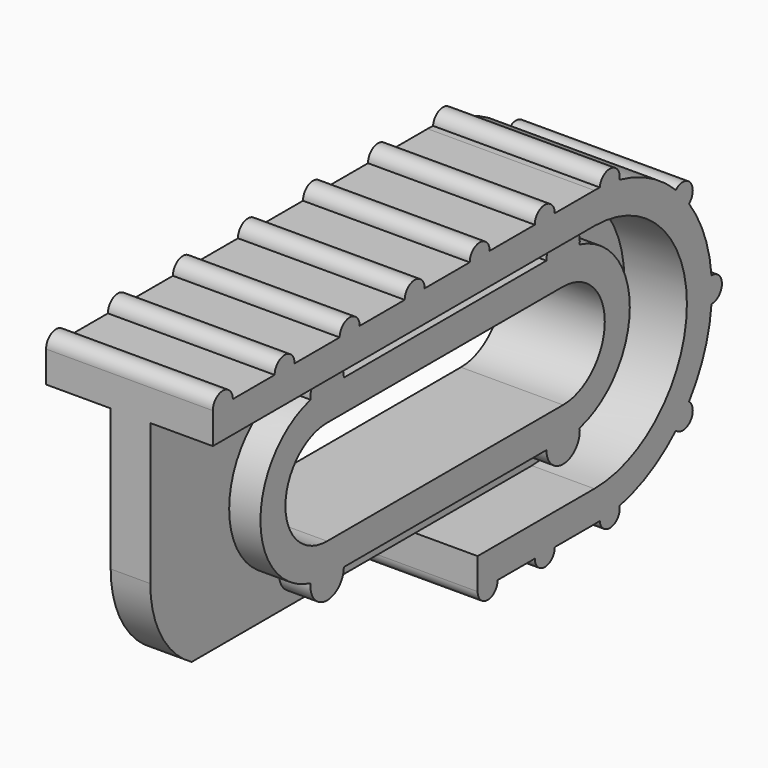
from build123d import *

# Parameters (mm, degrees)
PAD104_DEPTH            = 1.9
POCKET097_DEPTH         = 2
PAD105_DEPTH            = 1.5
PAD106_DEPTH            = 1.5
PAD107_DEPTH            = 4.9
PAD108_DEPTH            = 3.1
PAD110_DEPTH            = 8
SKETCH201_R             = 1
PAD160_DEPTH            = 2
BODY016_ROLL_ANGLE      = -90
BODY016_PLACEMENT_ANGLE = 90


with BuildPart() as part:
    # Sketch196 → Pad104 (new body)
    with BuildSketch(Plane.XY):
        with BuildLine():
            Line((19.17, -5.55), (42.05, -5.55))
            ThreePointArc((42.05, -5.55), (47.6, 0), (42.05, 5.55))
            Line((21.65, 5.55), (42.05, 5.55))
            ThreePointArc((21.65, 5.55), (19.834103, 3.721462), (19.17, 1.231482))
            Line((19.17, -5.55), (19.17, 1.231482))
        make_face()
    extrude(amount=PAD104_DEPTH)

    # Sketch197 (on Face7 of Pad104) → Pocket097 (cut)
    with BuildSketch(Plane.XY.offset(1.9)):
        with BuildLine():
            ThreePointArc((27.9, 2.5), (25.4, 0), (27.9, -2.5))
            Line((27.9, -2.5), (42.05, -2.5))
            ThreePointArc((42.05, -2.5), (44.55, 0), (42.05, 2.5))
            Line((27.9, 2.5), (42.05, 2.5))
        make_face()
    extrude(amount=-POCKET097_DEPTH, mode=Mode.SUBTRACT)

    # Sketch198 (on Face5 of Pocket097) → Pad105 (join)
    with BuildSketch(Plane.XY.offset(1.9)):
        with BuildLine():
            ThreePointArc((42.05, -4), (46.05, 0), (42.05, 4))
            Line((27.9, 4), (42.05, 4))
            ThreePointArc((27.9, 4), (23.899997, 0), (27.9, -4))
            Line((42.05, -4), (27.9, -4))
        make_face()
        with BuildLine():
            ThreePointArc((27.9, 2.5), (25.399983, 0), (27.9, -2.5))
            Line((42.05, -2.5), (27.9, -2.5))
            ThreePointArc((42.05, -2.5), (44.55, 0), (42.05, 2.5))
            Line((42.05, 2.5), (27.9, 2.5))
        make_face(mode=Mode.SUBTRACT)
    extrude(amount=PAD105_DEPTH)

    # Sketch199 (on Face4 of Pad105) → Pad106 (join)
    with BuildSketch(Plane(origin=(0, 0, 0), x_dir=(1, 0, 0), z_dir=(0, 0, -1))):
        with BuildLine():
            Line((27.9, 4), (42.05, 4))
            ThreePointArc((42.05, -4), (46.050003, 0), (42.05, 4))
            Line((42.05, -4), (27.9, -4))
            ThreePointArc((27.9, 4), (23.899975, 0), (27.9, -4))
        make_face()
        with BuildLine():
            ThreePointArc((27.9, 2.5), (25.4, 0), (27.9, -2.5))
            Line((42.05, -2.5), (27.9, -2.5))
            ThreePointArc((42.05, -2.5), (44.55, 0), (42.05, 2.5))
            Line((27.9, 2.5), (42.05, 2.5))
        make_face(mode=Mode.SUBTRACT)
    extrude(amount=PAD106_DEPTH)

    # Sketch200 (on Face5 of Pad106) → Pad107 (join)
    with BuildSketch(Plane.XY.offset(1.9)):
        with BuildLine():
            ThreePointArc((42.05, -5.55), (47.6, 0), (42.05, 5.55))
            Line((42.05, 5.55), (35.05, 5.55))
            Line((35.05, 7.05), (35.05, 5.55))
            Line((42.05, 7.05), (35.05, 7.05))
            ThreePointArc((42.05, -7.05), (49.1, 0), (42.05, 7.05))
            Line((42.05, -7.05), (19.17, -7.05))
            Line((19.17, -7.05), (19.17, -5.55))
            Line((19.17, -5.55), (42.05, -5.55))
        make_face()
    extrude(amount=-PAD107_DEPTH)

    # Sketch200 (on Face5 of Pad106) → Pad108 (join)
    with BuildSketch(Plane.XY.offset(1.9)):
        with BuildLine():
            ThreePointArc((42.05, -5.55), (47.6, 0), (42.05, 5.55))
            Line((42.05, 5.55), (35.05, 5.55))
            Line((35.05, 7.05), (35.05, 5.55))
            Line((42.05, 7.05), (35.05, 7.05))
            ThreePointArc((42.05, -7.05), (49.1, 0), (42.05, 7.05))
            Line((42.05, -7.05), (19.17, -7.05))
            Line((19.17, -7.05), (19.17, -5.55))
            Line((19.17, -5.55), (42.05, -5.55))
        make_face()
    extrude(amount=PAD108_DEPTH)

    # Sketch202 → Pad110 (join)
    with BuildSketch(Plane(origin=(0, 0, -3), x_dir=(1, 0, 0), z_dir=(0, 0, -1))):
        with BuildLine():
            ThreePointArc((24.076013, 7.05), (23.476013, 7.65), (22.876013, 7.05))
            Line((22.876013, 7.05), (24.076013, 7.05))
        make_face()
        with BuildLine():
            ThreePointArc((27.976013, 7.05), (27.376013, 7.65), (26.776013, 7.05))
            Line((26.776013, 7.05), (27.976013, 7.05))
        make_face()
        with BuildLine():
            ThreePointArc((31.876013, 7.05), (31.276013, 7.65), (30.676013, 7.05))
            Line((30.676013, 7.05), (31.876013, 7.05))
        make_face()
        with BuildLine():
            ThreePointArc((35.776013, 7.05), (35.176013, 7.65), (34.576013, 7.05))
            Line((34.576013, 7.05), (35.776013, 7.05))
        make_face()
        with BuildLine():
            ThreePointArc((39.676013, 7.05), (39.076013, 7.65), (38.476013, 7.05))
            Line((38.476013, 7.05), (39.676013, 7.05))
        make_face()
        with BuildLine():
            ThreePointArc((49.074468, -0.599457), (49.7, 0), (49.074468, 0.599457))
            Line((49.074468, 0.599457), (49.074468, -0.599457))
        make_face()
        with BuildLine():
            ThreePointArc((47.727552, 4.179462), (47.802815, 5.042581), (46.937275, 5.081047))
            Line((46.937275, 5.081047), (47.727552, 4.179462))
        make_face()
        with BuildLine():
            ThreePointArc((43.564592, 6.885384), (43.052255, 7.584061), (42.376013, 7.042458))
            Line((42.376013, 7.042458), (43.564592, 6.885384))
        make_face()
        with BuildLine():
            ThreePointArc((46.937275, -5.081047), (47.802815, -5.042581), (47.727552, -4.179462))
            Line((47.727552, -4.179462), (46.937275, -5.081047))
        make_face()
        with BuildLine():
            ThreePointArc((42.376013, -7.042458), (43.052255, -7.584061), (43.564592, -6.885384))
            Line((43.564592, -6.885384), (42.376013, -7.042458))
        make_face()
        with BuildLine():
            ThreePointArc((38.476013, -7.05), (39.076013, -7.65), (39.676013, -7.05))
            Line((39.676013, -7.05), (38.476013, -7.05))
        make_face()
        with BuildLine():
            ThreePointArc((20.37, 7.05), (19.77, 7.65), (19.17, 7.05))
            Line((19.17, 7.05), (20.37, 7.05))
        make_face()
        with BuildLine():
            ThreePointArc((35.05, -7.05), (35.65, -7.65), (36.25, -7.05))
            Line((36.25, -7.05), (35.05, -7.05))
        make_face()
    extrude(amount=-PAD110_DEPTH)

    # Sketch201 (on Face19 of Pad108) → Pad160 (join)
    with BuildSketch(Plane(origin=(0, 0, -1.5), x_dir=(1, 0, 0), z_dir=(0, 0, -1))):
        with Locations((27.9, 4)):
            Circle(SKETCH201_R)
        with Locations((42.05, 4)):
            Circle(SKETCH201_R)
        with Locations((42.05, -4)):
            Circle(SKETCH201_R)
        with Locations((27.9, -4)):
            Circle(SKETCH201_R)
    extrude(amount=-PAD160_DEPTH)


with BuildPart() as part_1:
    # Body016 roll: moved
    add(part.part.rotate(Axis((0, 0, 0), (1, 0, 0)), BODY016_ROLL_ANGLE))


with BuildPart() as part_2:
    # Body016 placement: moved
    add(part_1.part.moved(Location((24.7, -51, -6.5))).rotate(Axis((24.7, -51, -6.5), (0, 0, 1)), BODY016_PLACEMENT_ANGLE))


solid = part_2.part
